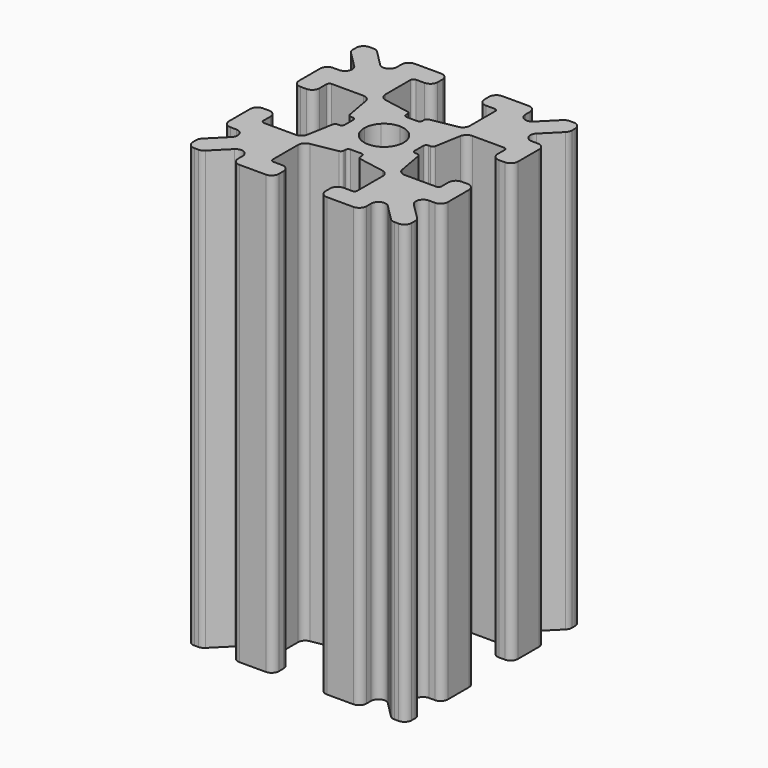
from build123d import *

# Parameters (mm, degrees)
F1_DEPTH = 30


with BuildPart() as f1:
    # F0 (on Top) → F1 (new body)
    with BuildSketch(Plane.XY):
        with BuildLine():
            Line((-7.5, -6.717157), (-7.5, -7))
            ThreePointArc((-7.5, -7), (-7.353553, -7.353553), (-7, -7.5))
            Line((-7, -7.5), (-6.717157, -7.5))
            ThreePointArc((-6.717157, -7.5), (-6.525816, -7.46194), (-6.363604, -7.353553))
            Line((-6.363604, -7.353553), (-5.256497, -6.246447))
            ThreePointArc((-5.256497, -6.246447), (-4.711602, -6.13806), (-4.402944, -6.6))
            Line((-4.402944, -6.6), (-4.402944, -7))
            ThreePointArc((-4.402944, -7), (-4.256497, -7.353553), (-3.902944, -7.5))
            Line((-3.902944, -7.5), (-2.1, -7.5))
            ThreePointArc((-2.1, -7.5), (-1.746447, -7.353553), (-1.6, -7))
            Line((-1.6, -7), (-1.6, -6.6))
            ThreePointArc((-1.6, -6.6), (-1.746447, -6.246447), (-2.1, -6.1))
            Line((-2.1, -6.1), (-2.7, -6.1))
            ThreePointArc((-2.7, -6.1), (-2.841421, -6.041421), (-2.9, -5.9))
            Line((-2.9, -5.9), (-2.9, -3.73793))
            ThreePointArc((-2.9, -3.73793), (-2.783634, -3.417266), (-2.488699, -3.24586))
            Line((-2.488699, -3.24586), (-0.73452, -2.929656))
            ThreePointArc((-0.73452, -2.929656), (-0.616547, -2.861094), (-0.57, -2.732828))
            Line((-0.57, -2.732828), (-0.57, -2.6))
            ThreePointArc((-0.57, -2.6), (-0.511421, -2.458579), (-0.37, -2.4))
            Line((-0.37, -2.4), (0, -2.4))
            Line((0, -2.4), (0.37, -2.4))
            ThreePointArc((0.37, -2.4), (0.511421, -2.458579), (0.57, -2.6))
            Line((0.57, -2.6), (0.57, -2.732828))
            ThreePointArc((0.57, -2.732828), (0.616547, -2.861094), (0.73452, -2.929656))
            Line((0.73452, -2.929656), (2.488699, -3.24586))
            ThreePointArc((2.488699, -3.24586), (2.783634, -3.417266), (2.9, -3.73793))
            Line((2.9, -3.73793), (2.9, -5.9))
            ThreePointArc((2.9, -5.9), (2.841421, -6.041421), (2.7, -6.1))
            Line((2.7, -6.1), (2.1, -6.1))
            ThreePointArc((2.1, -6.1), (1.746447, -6.246447), (1.6, -6.6))
            Line((1.6, -6.6), (1.6, -7))
            ThreePointArc((1.6, -7), (1.746447, -7.353553), (2.1, -7.5))
            Line((2.1, -7.5), (3.902944, -7.5))
            ThreePointArc((3.902944, -7.5), (4.256497, -7.353553), (4.402944, -7))
            Line((4.402944, -7), (4.402944, -6.6))
            ThreePointArc((4.402944, -6.6), (4.711602, -6.13806), (5.256497, -6.246447))
            Line((5.256497, -6.246447), (6.363604, -7.353553))
            ThreePointArc((6.363604, -7.353553), (6.525816, -7.46194), (6.717157, -7.5))
            Line((6.717157, -7.5), (7, -7.5))
            ThreePointArc((7, -7.5), (7.353553, -7.353553), (7.5, -7))
            Line((7.5, -7), (7.5, -6.717157))
            ThreePointArc((7.5, -6.717157), (7.46194, -6.525816), (7.353553, -6.363604))
            Line((7.353553, -6.363604), (6.246447, -5.256497))
            ThreePointArc((6.246447, -5.256497), (6.13806, -4.711602), (6.6, -4.402944))
            Line((6.6, -4.402944), (7, -4.402944))
            ThreePointArc((7, -4.402944), (7.353553, -4.256497), (7.5, -3.902944))
            Line((7.5, -3.902944), (7.5, -2.1))
            ThreePointArc((7.5, -2.1), (7.353553, -1.746447), (7, -1.6))
            Line((7, -1.6), (6.6, -1.6))
            ThreePointArc((6.6, -1.6), (6.246447, -1.746447), (6.1, -2.1))
            Line((6.1, -2.1), (6.1, -2.7))
            ThreePointArc((6.1, -2.7), (6.041421, -2.841421), (5.9, -2.9))
            Line((5.9, -2.9), (3.73793, -2.9))
            ThreePointArc((3.73793, -2.9), (3.417266, -2.783634), (3.24586, -2.488699))
            Line((3.24586, -2.488699), (2.929656, -0.73452))
            ThreePointArc((2.929656, -0.73452), (2.861094, -0.616547), (2.732828, -0.57))
            Line((2.732828, -0.57), (2.6, -0.57))
            ThreePointArc((2.6, -0.57), (2.458579, -0.511421), (2.4, -0.37))
            Line((2.4, -0.37), (2.4, 0))
            Line((2.4, 0), (2.4, 0.37))
            ThreePointArc((2.4, 0.37), (2.458579, 0.511421), (2.6, 0.57))
            Line((2.6, 0.57), (2.732828, 0.57))
            ThreePointArc((2.732828, 0.57), (2.861094, 0.616547), (2.929656, 0.73452))
            Line((2.929656, 0.73452), (3.24586, 2.488699))
            ThreePointArc((3.24586, 2.488699), (3.417266, 2.783634), (3.73793, 2.9))
            Line((3.73793, 2.9), (5.9, 2.9))
            ThreePointArc((5.9, 2.9), (6.041421, 2.841421), (6.1, 2.7))
            Line((6.1, 2.7), (6.1, 2.1))
            ThreePointArc((6.1, 2.1), (6.246447, 1.746447), (6.6, 1.6))
            Line((6.6, 1.6), (7, 1.6))
            ThreePointArc((7, 1.6), (7.353553, 1.746447), (7.5, 2.1))
            Line((7.5, 2.1), (7.5, 3.902944))
            ThreePointArc((7.5, 3.902944), (7.353553, 4.256497), (7, 4.402944))
            Line((7, 4.402944), (6.6, 4.402944))
            ThreePointArc((6.6, 4.402944), (6.13806, 4.711602), (6.246447, 5.256497))
            Line((6.246447, 5.256497), (7.353553, 6.363604))
            ThreePointArc((7.353553, 6.363604), (7.46194, 6.525816), (7.5, 6.717157))
            Line((7.5, 6.717157), (7.5, 7))
            ThreePointArc((7.5, 7), (7.353553, 7.353553), (7, 7.5))
            Line((7, 7.5), (6.717157, 7.5))
            ThreePointArc((6.717157, 7.5), (6.525816, 7.46194), (6.363604, 7.353553))
            Line((6.363604, 7.353553), (5.256497, 6.246447))
            ThreePointArc((5.256497, 6.246447), (4.711602, 6.13806), (4.402944, 6.6))
            Line((4.402944, 6.6), (4.402944, 7))
            ThreePointArc((4.402944, 7), (4.256497, 7.353553), (3.902944, 7.5))
            Line((3.902944, 7.5), (2.1, 7.5))
            ThreePointArc((2.1, 7.5), (1.746447, 7.353553), (1.6, 7))
            Line((1.6, 7), (1.6, 6.6))
            ThreePointArc((1.6, 6.6), (1.746447, 6.246447), (2.1, 6.1))
            Line((2.1, 6.1), (2.7, 6.1))
            ThreePointArc((2.7, 6.1), (2.841421, 6.041421), (2.9, 5.9))
            Line((2.9, 5.9), (2.9, 3.73793))
            ThreePointArc((2.9, 3.73793), (2.783634, 3.417266), (2.488699, 3.24586))
            Line((2.488699, 3.24586), (0.73452, 2.929656))
            ThreePointArc((0.73452, 2.929656), (0.616547, 2.861094), (0.57, 2.732828))
            Line((0.57, 2.732828), (0.57, 2.6))
            ThreePointArc((0.57, 2.6), (0.511421, 2.458579), (0.37, 2.4))
            Line((0.37, 2.4), (0, 2.4))
            Line((0, 2.4), (-0.37, 2.4))
            ThreePointArc((-0.37, 2.4), (-0.511421, 2.458579), (-0.57, 2.6))
            Line((-0.57, 2.6), (-0.57, 2.732828))
            ThreePointArc((-0.57, 2.732828), (-0.616547, 2.861094), (-0.73452, 2.929656))
            Line((-0.73452, 2.929656), (-2.488699, 3.24586))
            ThreePointArc((-2.488699, 3.24586), (-2.783634, 3.417266), (-2.9, 3.73793))
            Line((-2.9, 3.73793), (-2.9, 5.9))
            ThreePointArc((-2.9, 5.9), (-2.841421, 6.041421), (-2.7, 6.1))
            Line((-2.7, 6.1), (-2.1, 6.1))
            ThreePointArc((-2.1, 6.1), (-1.746447, 6.246447), (-1.6, 6.6))
            Line((-1.6, 6.6), (-1.6, 7))
            ThreePointArc((-1.6, 7), (-1.746447, 7.353553), (-2.1, 7.5))
            Line((-2.1, 7.5), (-3.902944, 7.5))
            ThreePointArc((-3.902944, 7.5), (-4.256497, 7.353553), (-4.402944, 7))
            Line((-4.402944, 7), (-4.402944, 6.6))
            ThreePointArc((-4.402944, 6.6), (-4.711602, 6.13806), (-5.256497, 6.246447))
            Line((-5.256497, 6.246447), (-6.363604, 7.353553))
            ThreePointArc((-6.363604, 7.353553), (-6.525816, 7.46194), (-6.717157, 7.5))
            Line((-6.717157, 7.5), (-7, 7.5))
            ThreePointArc((-7, 7.5), (-7.353553, 7.353553), (-7.5, 7))
            Line((-7.5, 7), (-7.5, 6.717157))
            ThreePointArc((-7.5, 6.717157), (-7.46194, 6.525816), (-7.353553, 6.363604))
            Line((-7.353553, 6.363604), (-6.246447, 5.256497))
            ThreePointArc((-6.246447, 5.256497), (-6.13806, 4.711602), (-6.6, 4.402944))
            Line((-6.6, 4.402944), (-7, 4.402944))
            ThreePointArc((-7, 4.402944), (-7.353553, 4.256497), (-7.5, 3.902944))
            Line((-7.5, 3.902944), (-7.5, 2.1))
            ThreePointArc((-7.5, 2.1), (-7.353553, 1.746447), (-7, 1.6))
            Line((-7, 1.6), (-6.6, 1.6))
            ThreePointArc((-6.6, 1.6), (-6.246447, 1.746447), (-6.1, 2.1))
            Line((-6.1, 2.1), (-6.1, 2.7))
            ThreePointArc((-6.1, 2.7), (-6.041421, 2.841421), (-5.9, 2.9))
            Line((-5.9, 2.9), (-3.73793, 2.9))
            ThreePointArc((-3.73793, 2.9), (-3.417266, 2.783634), (-3.24586, 2.488699))
            Line((-3.24586, 2.488699), (-2.929656, 0.73452))
            ThreePointArc((-2.929656, 0.73452), (-2.861094, 0.616547), (-2.732828, 0.57))
            Line((-2.732828, 0.57), (-2.6, 0.57))
            ThreePointArc((-2.6, 0.57), (-2.458579, 0.511421), (-2.4, 0.37))
            Line((-2.4, 0.37), (-2.4, 0))
            Line((-2.4, 0), (-2.4, -0.37))
            ThreePointArc((-2.4, -0.37), (-2.458579, -0.511421), (-2.6, -0.57))
            Line((-2.6, -0.57), (-2.732828, -0.57))
            ThreePointArc((-2.732828, -0.57), (-2.861094, -0.616547), (-2.929656, -0.73452))
            Line((-2.929656, -0.73452), (-3.24586, -2.488699))
            ThreePointArc((-3.24586, -2.488699), (-3.417266, -2.783634), (-3.73793, -2.9))
            Line((-3.73793, -2.9), (-5.9, -2.9))
            ThreePointArc((-5.9, -2.9), (-6.041421, -2.841421), (-6.1, -2.7))
            Line((-6.1, -2.7), (-6.1, -2.1))
            ThreePointArc((-6.1, -2.1), (-6.246447, -1.746447), (-6.6, -1.6))
            Line((-6.6, -1.6), (-7, -1.6))
            ThreePointArc((-7, -1.6), (-7.353553, -1.746447), (-7.5, -2.1))
            Line((-7.5, -2.1), (-7.5, -3.902944))
            ThreePointArc((-7.5, -3.902944), (-7.353553, -4.256497), (-7, -4.402944))
            Line((-7, -4.402944), (-6.6, -4.402944))
            ThreePointArc((-6.6, -4.402944), (-6.13806, -4.711602), (-6.246447, -5.256497))
            Line((-6.246447, -5.256497), (-7.353553, -6.363604))
            ThreePointArc((-7.353553, -6.363604), (-7.46194, -6.525816), (-7.5, -6.717157))
        make_face()
        with BuildLine():
            ThreePointArc((-0.954594, -0.954594), (-1.247237, -0.516623), (-1.35, 0))
            ThreePointArc((-1.35, 0), (-1.247237, 0.516623), (-0.954594, 0.954594))
            ThreePointArc((-0.954594, 0.954594), (-0.516623, 1.247237), (0, 1.35))
            ThreePointArc((0, 1.35), (0.516623, 1.247237), (0.954594, 0.954594))
            ThreePointArc((0.954594, 0.954594), (1.247237, 0.516623), (1.35, 0))
            ThreePointArc((1.35, 0), (1.247237, -0.516623), (0.954594, -0.954594))
            ThreePointArc((0.954594, -0.954594), (0.516623, -1.247237), (0, -1.35))
            ThreePointArc((0, -1.35), (-0.516623, -1.247237), (-0.954594, -0.954594))
        make_face(mode=Mode.SUBTRACT)
    extrude(amount=F1_DEPTH)


solid = f1.part
